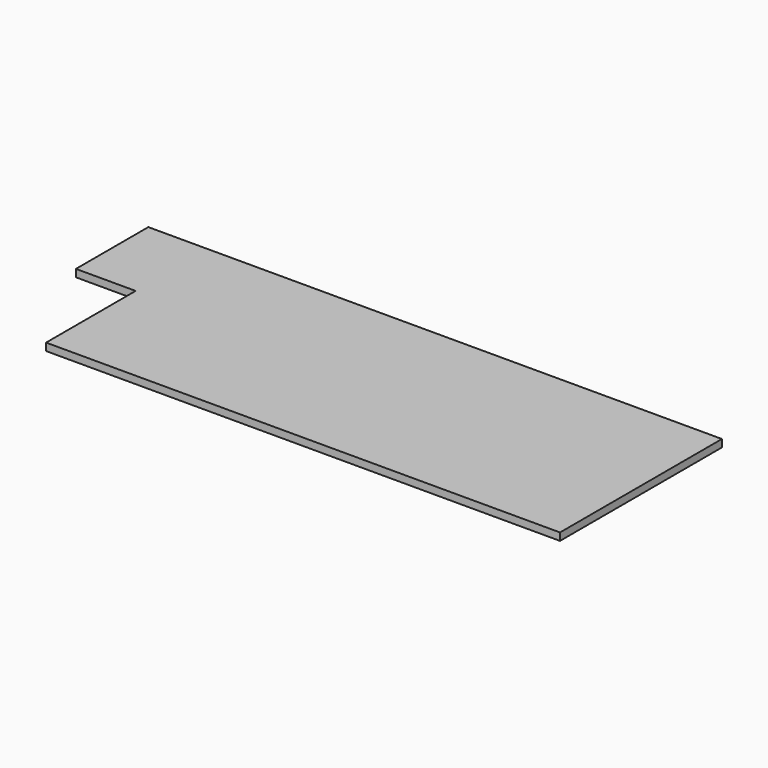
from build123d import *

# Parameters (mm, degrees)
F1_DEPTH = 50.8
F3_DEPTH = 44.45
F5_DEPTH = 6.35


with BuildPart() as f1:
    # F0 (on Top) → F1 (new body)
    with BuildSketch(Plane.XY):
        Polygon((660.602378, 1242.14413), (660.602378, 626.19413), (1067.002378, 626.19413), (1067.002378, -135.80587), (4565.852378, -135.80587), (4565.852378, 1242.14413), align=None)
        Polygon((4562.677378, -132.63087), (1070.177378, -132.63087), (1070.177378, 629.36913), (663.777378, 629.36913), (663.777378, 1238.96913), (4562.677378, 1238.96913), align=None, mode=Mode.SUBTRACT)
    extrude(amount=F1_DEPTH)


with BuildPart() as f3:
    # F2 (on face) → F3 (new body)
    with BuildSketch(Plane(origin=(0, 0, 0), x_dir=(1, 0, 0), z_dir=(0, 0, -1))):
        Polygon((1070.177378, -629.36913), (663.777378, -629.36913), (663.777378, -1238.96913), (4562.677378, -1238.96913), (4562.677378, 132.63087), (1070.177378, 132.63087), align=None)
    extrude(amount=-F3_DEPTH)


with BuildPart() as f5:
    # F4 (on face) → F5 (new body)
    with BuildSketch(Plane.XY.offset(44.45)):
        Polygon((4562.677378, 1238.96913), (663.777378, 1238.96913), (663.777378, 629.36913), (1070.177378, 629.36913), (1070.177378, -132.63087), (4562.677378, -132.63087), align=None)
    extrude(amount=F5_DEPTH)


solid = Compound([f1.part, f3.part, f5.part])
